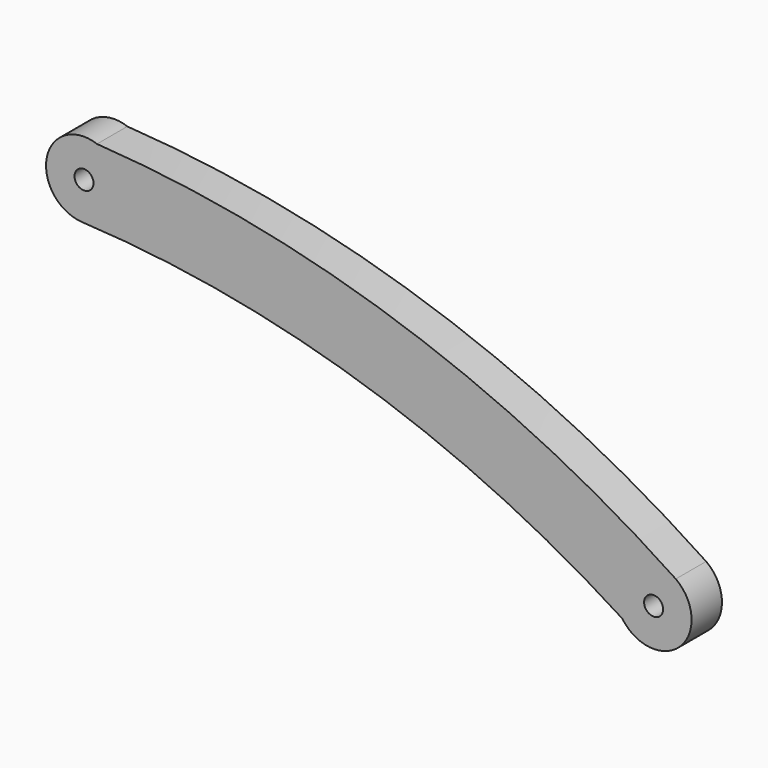
from build123d import *

# Parameters (mm, degrees)
SKETCH_R     = 1
PAD_DEPTH    = 4
POCKET_DEPTH = 0.5


with BuildPart() as part:
    # Sketch → Pad (new body)
    with BuildSketch(Plane(origin=(43, -2, 9), x_dir=(1, 0, 0), z_dir=(0, 1, 0))):
        with BuildLine():
            ThreePointArc((-0.223332, 3.993761), (-3.918859, -0.801586), (1.362808, -3.760685))
            ThreePointArc((1.362808, -3.760685), (33.201741, 2.472732), (62.334, 16.751548))
            ThreePointArc((62.334, 16.751548), (62.792415, 22.863986), (56.693532, 22.25106))
            ThreePointArc((-0.223332, 3.993761), (29.431262, 9.393393), (56.693532, 22.25106))
        make_face()
        Circle(SKETCH_R, mode=Mode.SUBTRACT)
        with Locations((60, 20)):
            Circle(SKETCH_R, mode=Mode.SUBTRACT)
    extrude(amount=PAD_DEPTH)

    # Sketch001 → Pocket (cut)
    with BuildSketch(Plane(origin=(43, 2, 9), x_dir=(1, 0, 0), z_dir=(0, 1, 0))):
        with BuildLine():
            ThreePointArc((4.422958, -1.803146), (31.876892, 3.906972), (57.301864, 15.734682))
            ThreePointArc((57.301864, 15.734682), (57.948359, 18.488233), (55.194808, 19.134728))
            ThreePointArc((4.063939, 2.180709), (30.609778, 7.70096), (55.194808, 19.134728))
            ThreePointArc((4.063939, 2.180709), (2.251525, 0.009273), (4.422958, -1.803146))
        make_face()
    extrude(amount=-POCKET_DEPTH, mode=Mode.SUBTRACT)


solid = part.part
